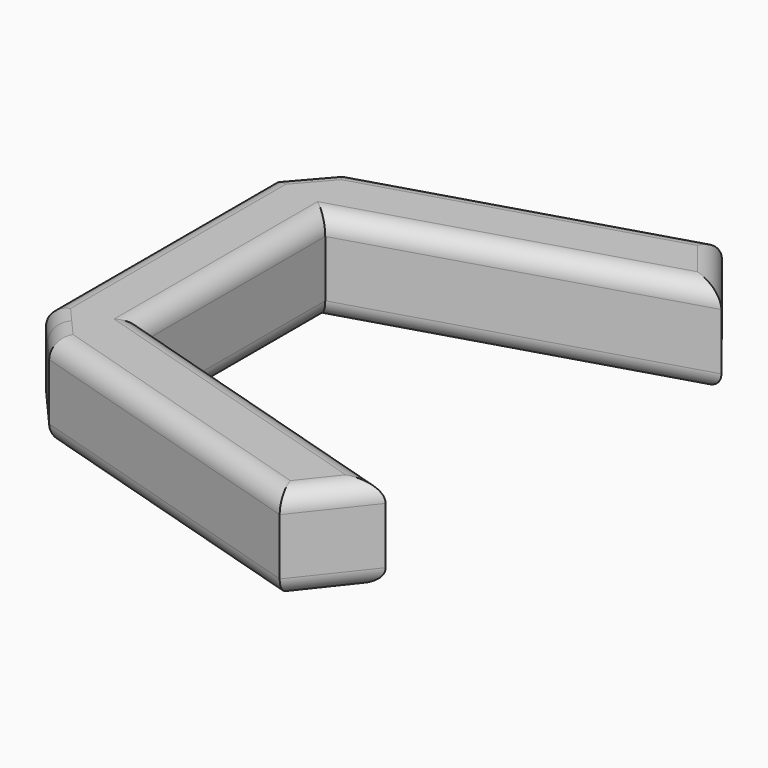
from build123d import *

# Parameters (mm, degrees)
F2_DEPTH      = 2.5
F2_DEPTH_BACK = 2.5
F4_R          = 1


with BuildPart() as f2:
    # F1 (on offset) → F2 (new body, two sides)
    with BuildSketch(Plane.XY.offset(44)) as f2_sk:
        Polygon((-20.9, 0), (-16.9, 0), (-16.9, 6), (0, 11.1249185786), (-2.7934713079, 14.6528808873), (-18.9273972603, 9.7602739726), (-19.9136986301, 8.6301369863), (-20.9, 7.5), align=None)
    extrude(amount=F2_DEPTH)
    extrude(f2_sk.sketch, amount=-F2_DEPTH_BACK)

    # F3: F2 across plane


with BuildPart() as f2_1:
    add(f2.part)
    add(f2.part.mirror(Plane.XZ))

    # F4
    f4_edges = [f2_1.edges().sort_by_distance(p)[0] for p in [
        (-16.9, 0, 46.5),
        (-8.45, 8.562459, 46.5),
        (-1.396736, 12.8889, 46.5),
        (-10.860434, 12.206577, 46.5),
        (-19.913699, 8.630137, 46.5),
        (-20.9, 0, 46.5),
        (-19.913699, -8.630137, 46.5),
        (-10.860434, -12.206577, 46.5),
        (-1.396736, -12.8889, 46.5),
        (-8.45, -8.562459, 46.5),
        (-16.9, 0, 41.5),
        (-8.45, 8.562459, 41.5),
        (-1.396736, 12.8889, 41.5),
        (-10.860434, 12.206577, 41.5),
        (-19.913699, 8.630137, 41.5),
        (-20.9, 0, 41.5),
        (-19.913699, -8.630137, 41.5),
        (-10.860434, -12.206577, 41.5),
        (-1.396736, -12.8889, 41.5),
        (-8.45, -8.562459, 41.5),
    ]]
    fillet(f4_edges, radius=F4_R)


solid = f2_1.part
